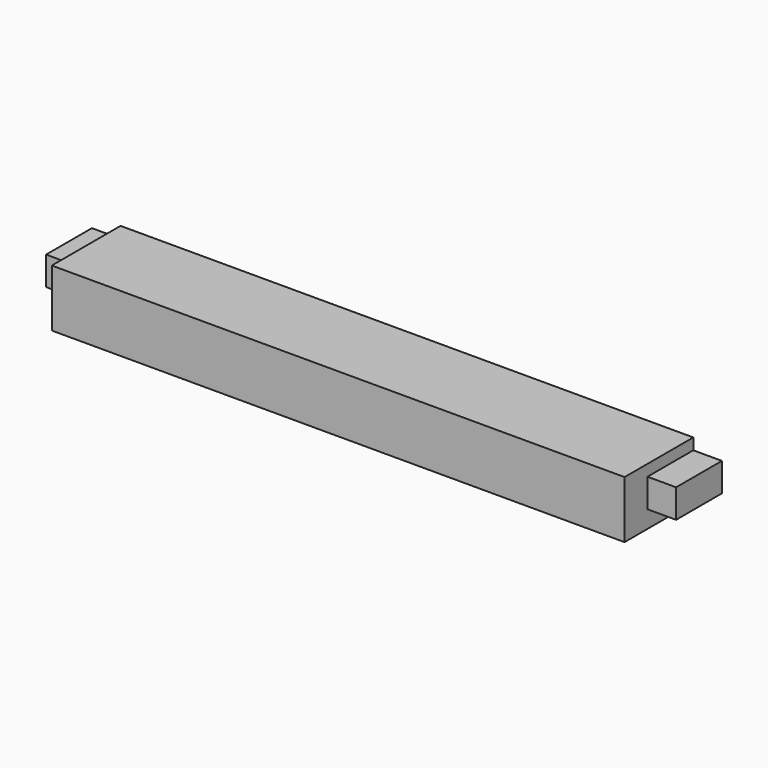
from build123d import *

# Parameters (mm, degrees)
F0_W     = 200
F0_H     = 30
F1_DEPTH = 20
F2_W     = 20
F2_H     = 10
F3_DEPTH = 10


with BuildPart() as f1:
    # F0 (on Top) → F1 (new body)
    with BuildSketch(Plane.XY):
        Rectangle(F0_W, F0_H)
    extrude(amount=F1_DEPTH)

    # F2 (on face) → F3 (join)
    with BuildSketch(Plane.YZ.offset(100)):
        with Locations((5, 11.047103)):
            Rectangle(F2_W, F2_H)
    extrude(amount=F3_DEPTH)

    # F4: F1 across plane


with BuildPart() as f1_1:
    add(f1.part)
    add(f1.part.mirror(Plane.YZ))


with BuildPart() as f5_1:
    # F5: copy of F1
    add(f1_1.part.moved(Location((0, 50, 0))))


solid = f5_1.part
